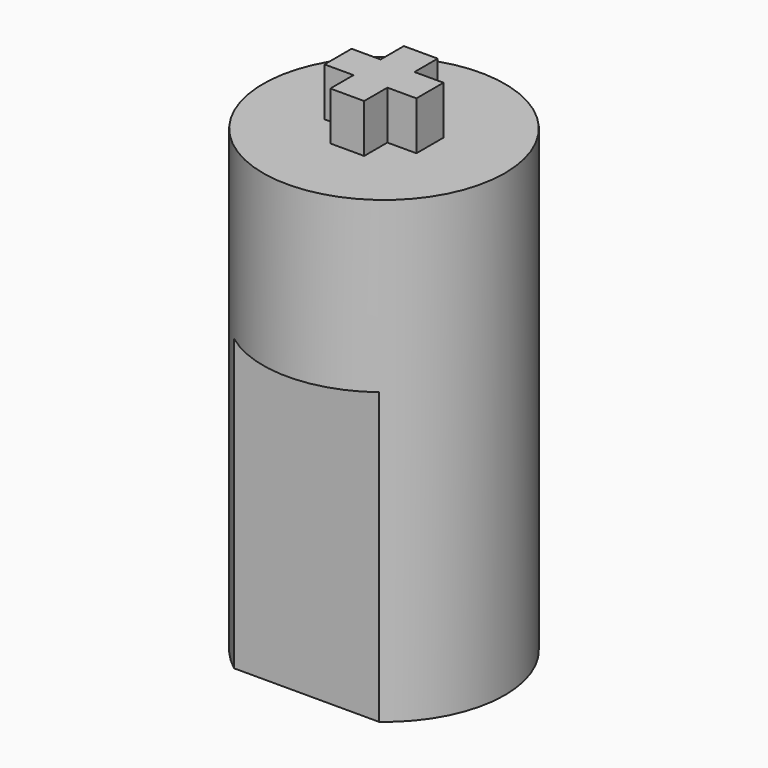
from build123d import *

# Parameters (mm, degrees)
F0_R     = 5
F1_DEPTH = 19
F3_DEPTH = 12
F4_W     = 1.4
F4_H     = 1.2
F4_W_2   = 1.2
F4_H_2   = 1.4
F5_DEPTH = 2


with BuildPart() as f1:
    # F0 (on Top) → F1 (new body)
    with BuildSketch(Plane.XY):
        Circle(F0_R)
    extrude(amount=F1_DEPTH)

    # F2 (on face) → F3 (cut)
    with BuildSketch(Plane(origin=(0, 0, 0), x_dir=(1, 0, 0), z_dir=(0, 0, -1))):
        with BuildLine():
            Line((-3, 4), (3, 4))
            ThreePointArc((3, 4), (0, 5), (-3, 4))
        make_face()
        with BuildLine():
            ThreePointArc((-3, -4), (0, -5), (3, -4))
            Line((3, -4), (-3, -4))
        make_face()
    extrude(amount=-F3_DEPTH, mode=Mode.SUBTRACT)

    # F4 (on face) → F5 (join)
    with BuildSketch(Plane.XY.offset(19)):
        with Locations((0, 1.3)):
            Rectangle(F4_W, F4_H)
        with Locations((-1.3, 0)):
            Rectangle(F4_W_2, F4_H_2)
        Rectangle(F4_W, F4_H_2)
        with Locations((0, -1.3)):
            Rectangle(F4_W, F4_H)
        with Locations((1.3, 0)):
            Rectangle(F4_W_2, F4_H_2)
    extrude(amount=F5_DEPTH)


solid = f1.part
